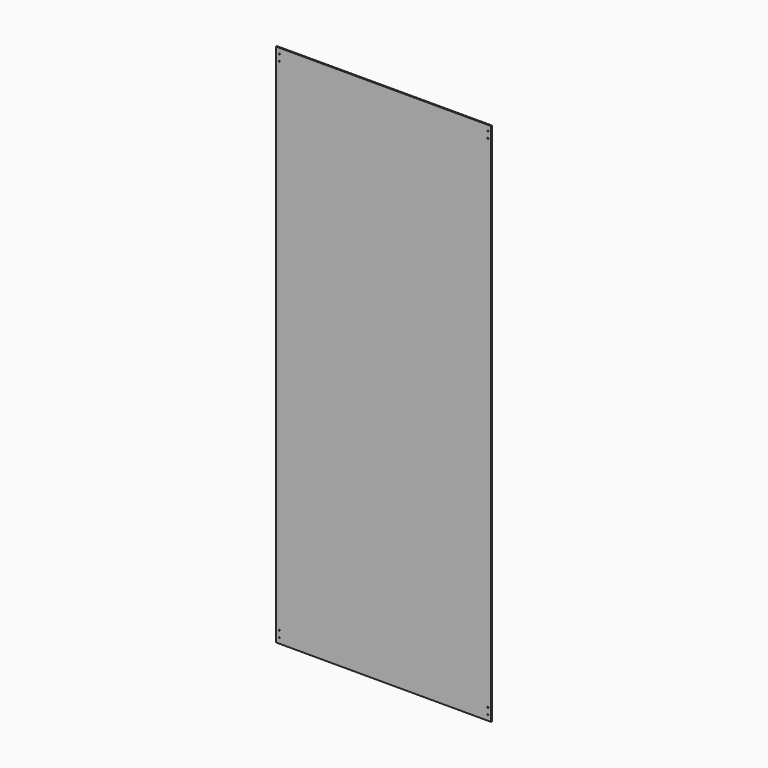
from build123d import *

# Parameters (mm, degrees)
F0_W     = 635
F0_H     = 1549.4
F0_R     = 1.5875
F1_DEPTH = 3.175


with BuildPart() as f1:
    # F0 (on Front) → F1 (new body)
    with BuildSketch(Plane.XZ):
        with Locations((-61.596862, -41.984022)):
            Rectangle(F0_W, F0_H)
        with Locations((-369.571862, -800.809022)):
            Circle(F0_R, mode=Mode.SUBTRACT)
        with Locations((-369.571862, -781.759022)):
            Circle(F0_R, mode=Mode.SUBTRACT)
        with Locations((246.378138, -800.809022)):
            Circle(F0_R, mode=Mode.SUBTRACT)
        with Locations((246.378138, -781.759022)):
            Circle(F0_R, mode=Mode.SUBTRACT)
        with Locations((-369.571862, 697.790978)):
            Circle(F0_R, mode=Mode.SUBTRACT)
        with Locations((-369.571862, 716.840978)):
            Circle(F0_R, mode=Mode.SUBTRACT)
        with Locations((246.378138, 697.790978)):
            Circle(F0_R, mode=Mode.SUBTRACT)
        with Locations((246.378138, 716.840978)):
            Circle(F0_R, mode=Mode.SUBTRACT)
    extrude(amount=F1_DEPTH)


solid = f1.part
